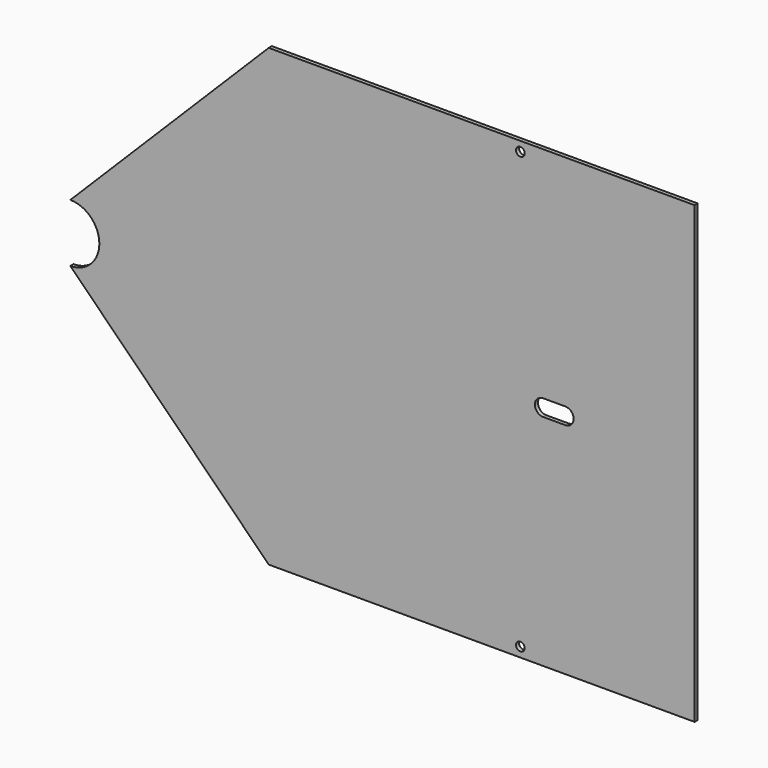
from build123d import *

# Parameters (mm, degrees)
F1_DEPTH = 2
F2_R     = 2.25
F3_DEPTH = 2


with BuildPart() as f1:
    # F0 (on Front) → F1 (new body)
    with BuildSketch(Plane.XZ):
        with BuildLine():
            Line((-72.933308, -117.5), (147.066692, -117.5))
            Line((147.066692, -117.5), (147.066692, 117.5))
            Line((147.066692, 117.5), (-72.933308, 117.5))
            Line((-72.933308, 117.5), (-175.433308, 15))
            ThreePointArc((-175.433308, 15), (-160.433308, 0), (-175.433308, -15))
            Line((-175.433308, -15), (-72.933308, -117.5))
        make_face()
    extrude(amount=F1_DEPTH)

    # F2 (on face) → F3 (cut, through all)
    with BuildSketch(Plane.XZ.offset(2)):
        with BuildLine():
            Line((68.816692, -4.25), (80.316692, -4.25))
            ThreePointArc((80.316692, -4.25), (84.566692, 0), (80.316692, 4.25))
            Line((80.316692, 4.25), (68.816692, 4.25))
            ThreePointArc((68.816692, 4.25), (64.566692, 0), (68.816692, -4.25))
        make_face()
        with Locations((57.066692, -112.5)):
            Circle(F2_R)
        with Locations((57.066692, 112.5)):
            Circle(F2_R)
    extrude(amount=-F3_DEPTH, mode=Mode.SUBTRACT)


solid = f1.part
